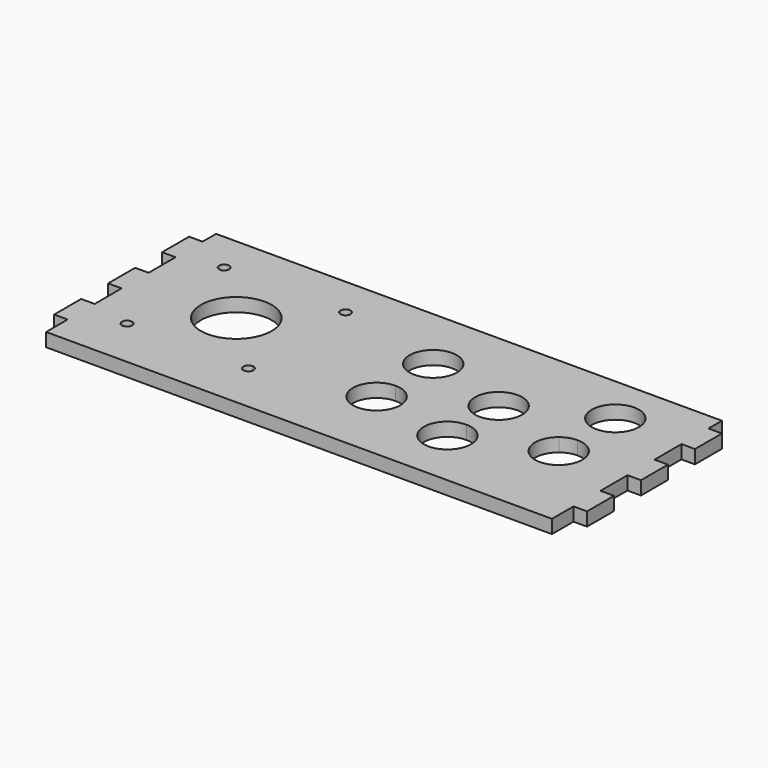
from build123d import *

# Parameters (mm, degrees)
F0_R     = 1.5
F1_DEPTH = 4
F3_DEPTH = 25
F4_W     = 4
F4_H     = 10
F5_DEPTH = 4


with BuildPart() as f1:
    # F0 (on Top) → F1 (new body)
    with BuildSketch(Plane.XY):
        with BuildLine():
            ThreePointArc((-25.5, -18), (-25.93934, -16.93934), (-27, -16.5))
            ThreePointArc((-27, -16.5), (-28.06066, -19.06066), (-25.5, -18))
        make_face()
        with BuildLine():
            Line((-45, 0), (-55.5, 0))
            ThreePointArc((-55.5, 0), (-45, -10.5), (-34.5, 0))
            Line((-34.5, 0), (-45, 0))
        make_face()
        Polygon((-75, -30), (75, -30), (75, 30), (-75, 30), (-75, 0), align=None)
        with Locations((-63, -18)):
            Circle(F0_R, mode=Mode.SUBTRACT)
        with BuildLine():
            ThreePointArc((-25.5, -18), (-28.06066, -19.06066), (-27, -16.5))
            ThreePointArc((-27, -16.5), (-25.93934, -16.93934), (-25.5, -18))
        make_face(mode=Mode.SUBTRACT)
        with BuildLine():
            ThreePointArc((-34.5, 0), (-45, -10.5), (-55.5, 0))
            ThreePointArc((-55.5, 0), (-45, 10.5), (-34.5, 0))
        make_face(mode=Mode.SUBTRACT)
        with Locations((-63, 18)):
            Circle(F0_R, mode=Mode.SUBTRACT)
        with Locations((-27, 18)):
            Circle(F0_R, mode=Mode.SUBTRACT)
    extrude(amount=F1_DEPTH)

    # F2 (on face) → F3 (cut)
    with BuildSketch(Plane(origin=(0, 0, 0), x_dir=(1, 0, 0), z_dir=(0, 0, -1))):
        with BuildLine():
            ThreePointArc((55, -1.5), (57.291288, -1.114378), (59.330127, 0))
            Line((59.330127, 0), (55, 0))
            Line((55, 0), (55, -1.5))
        make_face()
        with BuildLine():
            ThreePointArc((62, -15.5), (59.949747, -10.550253), (55, -8.5))
            ThreePointArc((55, -8.5), (50.050253, -20.449747), (62, -15.5))
        make_face()
        with BuildLine():
            ThreePointArc((12, -10.5), (9.949747, -5.550253), (5, -3.5))
            ThreePointArc((5, -3.5), (0.050253, -15.449747), (12, -10.5))
        make_face()
        with BuildLine():
            ThreePointArc((12, 10.5), (0.050253, 15.449747), (5, 3.5))
            ThreePointArc((5, 3.5), (9.949747, 5.550253), (12, 10.5))
        make_face()
        with BuildLine():
            ThreePointArc((37, 15.5), (25.050253, 20.449747), (30, 8.5))
            ThreePointArc((30, 8.5), (34.949747, 10.550253), (37, 15.5))
        make_face()
        with BuildLine():
            ThreePointArc((37, -3.5), (36.761481, -1.688267), (36.062178, 0))
            Line((36.062178, 0), (30, 0))
            Line((30, 0), (23.937822, 0))
            ThreePointArc((23.937822, 0), (28.188267, -10.261481), (37, -3.5))
        make_face()
        with BuildLine():
            Line((30, 0), (36.062178, 0))
            ThreePointArc((36.062178, 0), (33.5, 2.562178), (30, 3.5))
            Line((30, 3.5), (30, 0))
        make_face()
        with BuildLine():
            Line((55, 0), (59.330127, 0))
            ThreePointArc((59.330127, 0), (61.297257, 2.443113), (62, 5.5))
            ThreePointArc((62, 5.5), (51.943113, 11.797257), (50.669873, 0))
            Line((50.669873, 0), (55, 0))
        make_face()
        with BuildLine():
            Line((55, -1.5), (55, 0))
            Line((55, 0), (50.669873, 0))
            ThreePointArc((50.669873, 0), (52.708712, -1.114378), (55, -1.5))
        make_face()
        with BuildLine():
            Line((23.937822, 0), (30, 0))
            Line((30, 0), (30, 3.5))
            ThreePointArc((30, 3.5), (26.5, 2.562178), (23.937822, 0))
        make_face()
    extrude(amount=-F3_DEPTH, mode=Mode.SUBTRACT)

    # F4 (on face) → F5 (join)
    with BuildSketch(Plane(origin=(0, 0, 0), x_dir=(1, 0, 0), z_dir=(0, 0, -1))):
        Polygon((-75, -5), (-75, 0), (-75, 5), (-79, 5), (-79, -5), align=None)
        Polygon((-75, 20), (-75, 25), (-79, 25), (-79, 15), (-75, 15), align=None)
        Polygon((-75, -15), (-79, -15), (-79, -25), (-75, -25), (-75, -20), align=None)
        with Locations((77, 0)):
            Rectangle(F4_W, F4_H)
        with Locations((77, -20)):
            Rectangle(F4_W, F4_H)
        with Locations((77, 20)):
            Rectangle(F4_W, F4_H)
        Polygon((-75, 33), (-75, 30), (0, 30), (75, 30), (75, 33), align=None)
    extrude(amount=-F5_DEPTH)


solid = f1.part
